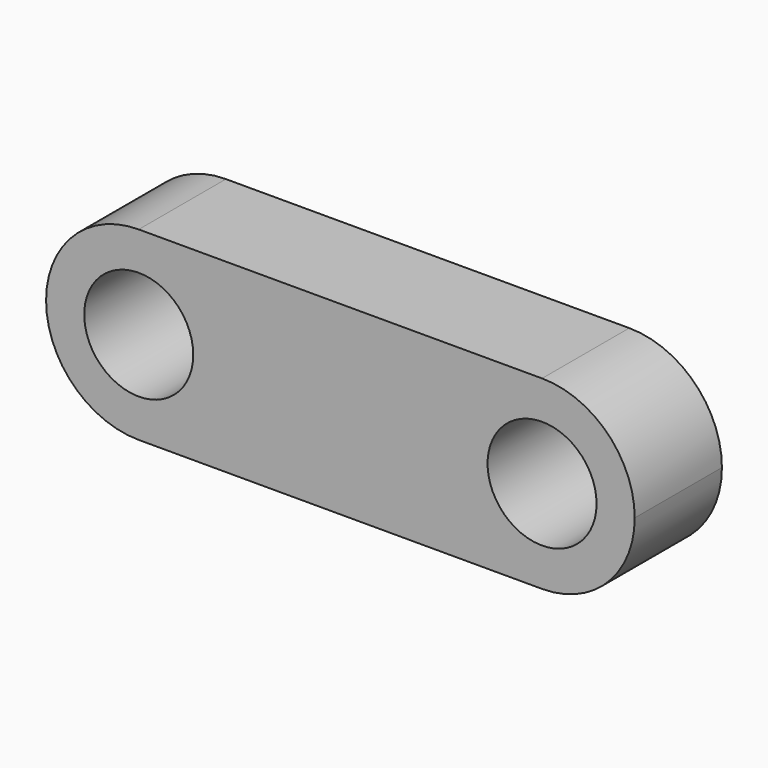
from build123d import *

# Parameters (mm, degrees)
F0_R     = 2.5
F1_DEPTH = 5


with BuildPart() as f1:
    # F0 (on Front) → F1 (new body)
    with BuildSketch(Plane.XZ):
        with BuildLine():
            ThreePointArc((0, -4.25), (3.005204, -3.005204), (4.25, 0))
            ThreePointArc((4.25, 0), (3.005204, 3.005204), (0, 4.25))
            ThreePointArc((0, 4.25), (-4.25, 0), (0, -4.25))
        make_face()
        Circle(F0_R, mode=Mode.SUBTRACT)
        with BuildLine():
            ThreePointArc((0, 4.25), (3.005204, 3.005204), (4.25, 0))
            ThreePointArc((4.25, 0), (3.005204, -3.005204), (0, -4.25))
            Line((0, -4.25), (9.25, -4.25))
            Line((9.25, -4.25), (18.5, -4.25))
            ThreePointArc((18.5, -4.25), (14.25, 0), (18.5, 4.25))
            Line((18.5, 4.25), (9.25, 4.25))
            Line((9.25, 4.25), (0, 4.25))
        make_face()
        with BuildLine():
            ThreePointArc((22.75, 0), (21.505204, 3.005204), (18.5, 4.25))
            ThreePointArc((18.5, 4.25), (14.25, 0), (18.5, -4.25))
            ThreePointArc((18.5, -4.25), (21.505204, -3.005204), (22.75, 0))
        make_face()
        with Locations((18.5, 0)):
            Circle(F0_R, mode=Mode.SUBTRACT)
    extrude(amount=F1_DEPTH)


solid = f1.part
